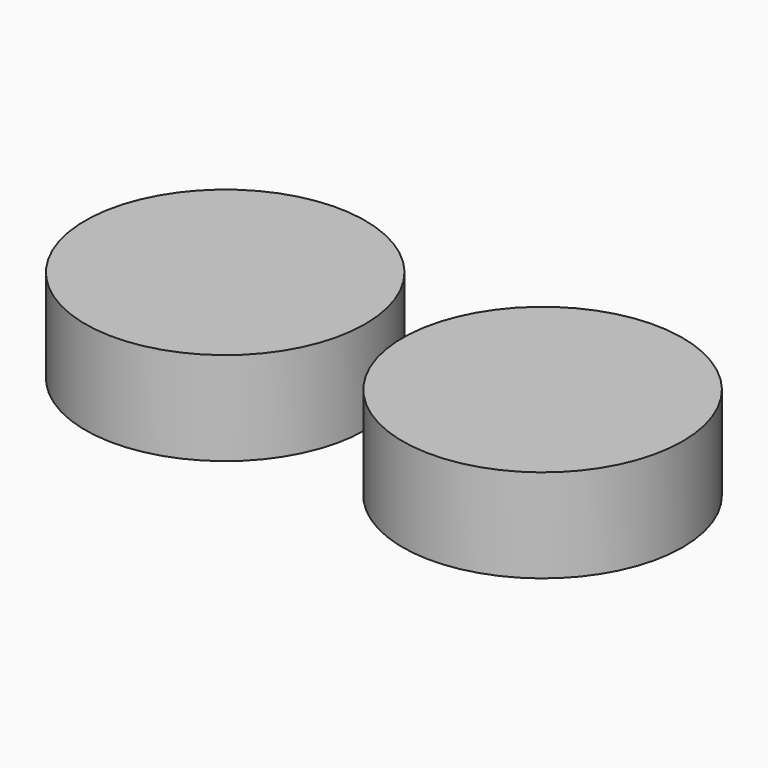
from build123d import *

# Parameters (mm, degrees)
SKETCH001_R  = 15
PAD001_DEPTH = 10
SKETCH_R     = 15
PAD_DEPTH    = 10


with BuildPart() as r_15_copy:
    # Sketch001 → Pad001 (new body)
    with BuildSketch(Plane.XY):
        with Locations((-16, 0)):
            Circle(SKETCH001_R)
    extrude(amount=PAD001_DEPTH)


with BuildPart() as r_15_copy_1:
    # Body001 placement: moved
    add(r_15_copy.part.moved(Location((33, 0, -10))))


with BuildPart() as model_fusion:
    # Sketch → Pad (new body)
    with BuildSketch(Plane.XY):
        with Locations((-16, 0)):
            Circle(SKETCH_R)
    extrude(amount=PAD_DEPTH)


with BuildPart() as model_fusion_1:
    # Body placement: moved
    add(model_fusion.part.moved(Location((-1, 0, -10))))

    # Fusion: union R_15_copy
    add(r_15_copy_1.part)


solid = model_fusion_1.part
